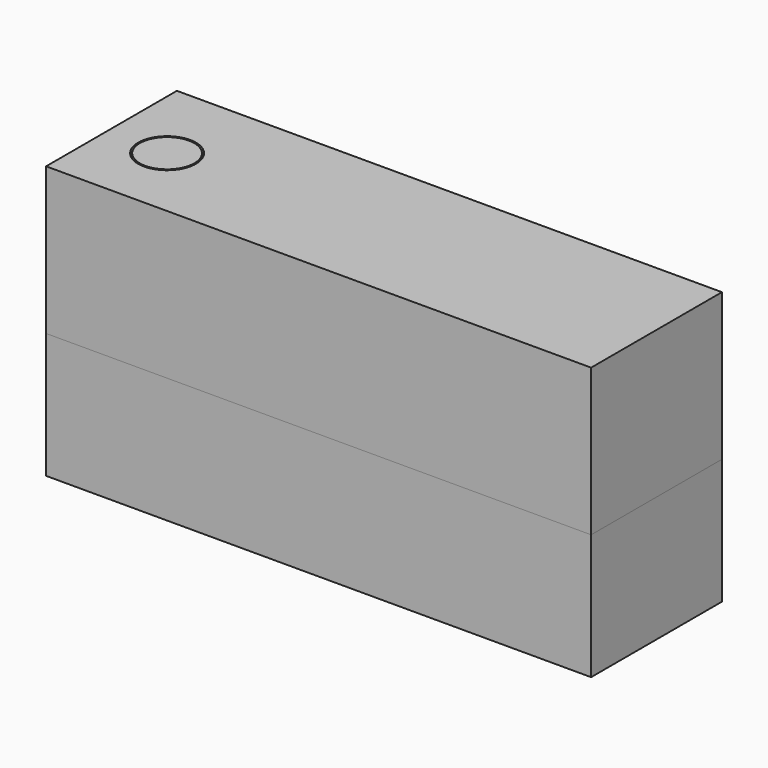
from build123d import *

# Parameters (mm, degrees)
BOX_W        = 1000
BOX_H        = 300
BOX_DEPTH    = 500
BOX001_W     = 1000
BOX001_H     = 300
BOX001_DEPTH = 230


with BuildPart() as body:
    # Sketch → Revolution (revolve)
    with BuildSketch(Plane.XZ):
        with BuildLine():
            Line((-50, 649.259148), (-50, 150))
            ThreePointArc((-51.149586, 145.344876), (-50.29165, 147.602515), (-50, 150))
            Line((-51.149586, 145.344876), (-75, 100))
            Line((-75, 100), (-78, 100))
            Line((-78, 100), (-53.804711, 146.000561))
            ThreePointArc((-53.804711, 146.000561), (-53.204155, 147.580909), (-53, 149.259148))
            Line((-53, 149.259148), (-53, 649.259148))
            Line((-53, 649.259148), (-50, 649.259148))
        make_face()
    revolve(axis=Axis((0, 0, 0), (0, 0, 1)))


with BuildPart() as cut:
    # Box → Box (new body)
    with BuildSketch(Plane(origin=(-110, -140, 0), x_dir=(1, 0, 0), z_dir=(0, 0, 1))):
        with Locations((500, 150)):
            Rectangle(BOX_W, BOX_H)
    extrude(amount=BOX_DEPTH)

    # Cut: cut Body
    add(body.part, mode=Mode.SUBTRACT)


with BuildPart() as box001:
    # Box001 → Box001 (new body)
    with BuildSketch(Plane(origin=(-110, -140, 0), x_dir=(1, 0, 0), z_dir=(0, 0, 1))):
        with Locations((500, 150)):
            Rectangle(BOX001_W, BOX001_H)
    extrude(amount=BOX001_DEPTH)


solid = Compound([cut.part, box001.part])
